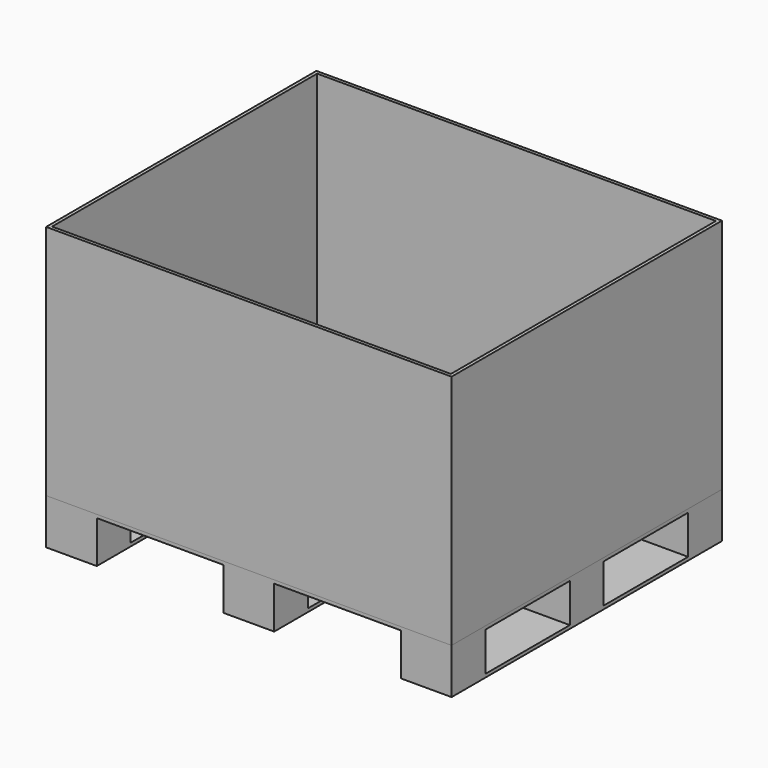
from build123d import *

# Parameters (mm, degrees)
F0_W     = 152.4
F0_H     = 127
F0_W_2   = 381
F0_H_2   = 317.5
F1_DEPTH = 10
F2_DEPTH = 127
F3_START = -117
F3_DEPTH = 10
F4_W     = 1219.2
F4_H     = 1016
F4_W_2   = 1199.2
F4_H_2   = 996
F5_DEPTH = 711.2


with BuildPart() as f1:
    # F0 (on Top) → F1 (new body)
    with BuildSketch(Plane.XY):
        with Locations((-1086.7330067158, 913.3629122376)):
            Rectangle(F0_W, F0_H)
        with Locations((-820.0330067158, 913.3629122376)):
            Rectangle(F0_W_2, F0_H)
        with Locations((-553.3330067158, 913.3629122376)):
            Rectangle(F0_W, F0_H)
        with Locations((-286.6330067158, 913.3629122376)):
            Rectangle(F0_W_2, F0_H)
        with Locations((-19.9330067158, 913.3629122376)):
            Rectangle(F0_W, F0_H)
        with Locations((-19.9330067158, 691.1129122376)):
            Rectangle(F0_W, F0_H_2)
        with Locations((-286.6330067158, 691.1129122376)):
            Rectangle(F0_W_2, F0_H_2)
        with Locations((-553.3330067158, 691.1129122376)):
            Rectangle(F0_W, F0_H_2)
        with Locations((-820.0330067158, 691.1129122376)):
            Rectangle(F0_W_2, F0_H_2)
        with Locations((-1086.7330067158, 691.1129122376)):
            Rectangle(F0_W, F0_H_2)
        with Locations((-1086.7330067158, 24.3629122376)):
            Rectangle(F0_W, F0_H)
        with Locations((-1086.7330067158, 246.6129122376)):
            Rectangle(F0_W, F0_H_2)
        with Locations((-820.0330067158, 24.3629122376)):
            Rectangle(F0_W_2, F0_H)
        with Locations((-286.6330067158, 246.6129122376)):
            Rectangle(F0_W_2, F0_H_2)
        with Locations((-820.0330067158, 246.6129122376)):
            Rectangle(F0_W_2, F0_H_2)
        with Locations((-286.6330067158, 24.3629122376)):
            Rectangle(F0_W_2, F0_H)
        with Locations((-19.9330067158, 246.6129122376)):
            Rectangle(F0_W, F0_H_2)
        with Locations((-1086.7330067158, 468.8629122376)):
            Rectangle(F0_W, F0_H)
        with Locations((-820.0330067158, 468.8629122376)):
            Rectangle(F0_W_2, F0_H)
        with Locations((-553.3330067158, 468.8629122376)):
            Rectangle(F0_W, F0_H)
        with Locations((-286.6330067158, 468.8629122376)):
            Rectangle(F0_W_2, F0_H)
        with Locations((-553.3330067158, 246.6129122376)):
            Rectangle(F0_W, F0_H_2)
        with Locations((-19.9330067158, 468.8629122376)):
            Rectangle(F0_W, F0_H)
        with Locations((-553.3330067158, 24.3629122376)):
            Rectangle(F0_W, F0_H)
        with Locations((-19.9330067158, 24.3629122376)):
            Rectangle(F0_W, F0_H)
    extrude(amount=F1_DEPTH)

    # F0 (on Top) → F2 (join)
    with BuildSketch(Plane.XY):
        with Locations((-1086.7330067158, 24.3629122376)):
            Rectangle(F0_W, F0_H)
        with Locations((-553.3330067158, 24.3629122376)):
            Rectangle(F0_W, F0_H)
        with Locations((-19.9330067158, 24.3629122376)):
            Rectangle(F0_W, F0_H)
        with Locations((-19.9330067158, 468.8629122376)):
            Rectangle(F0_W, F0_H)
        with Locations((-553.3330067158, 468.8629122376)):
            Rectangle(F0_W, F0_H)
        with Locations((-1086.7330067158, 468.8629122376)):
            Rectangle(F0_W, F0_H)
        with Locations((-1086.7330067158, 913.3629122376)):
            Rectangle(F0_W, F0_H)
        with Locations((-553.3330067158, 913.3629122376)):
            Rectangle(F0_W, F0_H)
        with Locations((-19.9330067158, 913.3629122376)):
            Rectangle(F0_W, F0_H)
    extrude(amount=-F2_DEPTH)

    # F0 (on Top) → F3 (join)
    with BuildSketch(Plane.XY.offset(F3_START)):
        with Locations((-1086.7330067158, 246.6129122376)):
            Rectangle(F0_W, F0_H_2)
        with Locations((-553.3330067158, 246.6129122376)):
            Rectangle(F0_W, F0_H_2)
        with Locations((-19.9330067158, 246.6129122376)):
            Rectangle(F0_W, F0_H_2)
        with Locations((-19.9330067158, 691.1129122376)):
            Rectangle(F0_W, F0_H_2)
        with Locations((-553.3330067158, 691.1129122376)):
            Rectangle(F0_W, F0_H_2)
        with Locations((-1086.7330067158, 691.1129122376)):
            Rectangle(F0_W, F0_H_2)
    extrude(amount=-F3_DEPTH)


with BuildPart() as f5:
    # F4 (on face) → F5 (new body)
    with BuildSketch(Plane.XY.offset(10)):
        with Locations((-553.3330067158, 468.8629122376)):
            Rectangle(F4_W, F4_H)
        with Locations((-553.3330067158, 468.8629122376)):
            Rectangle(F4_W_2, F4_H_2, mode=Mode.SUBTRACT)
    extrude(amount=F5_DEPTH)


solid = Compound([f1.part, f5.part])
